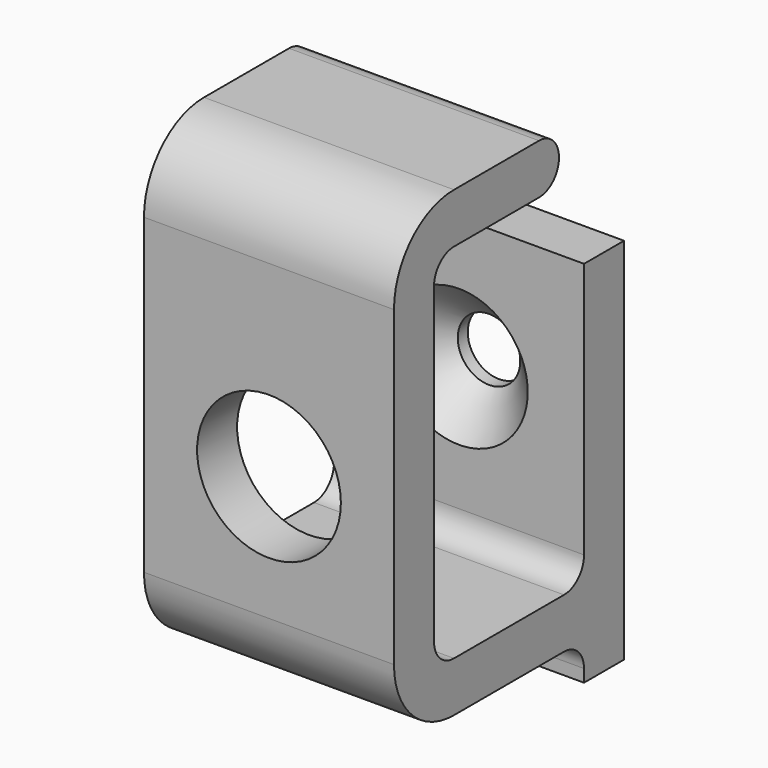
from build123d import *

# Parameters (mm, degrees)
PAD_DEPTH        = 10
HOLE_D           = 5
HOLE_CSINK_D     = 11
HOLE_CSINK_ANGLE = 90
SKETCH002_R      = 5.75
POCKET_DEPTH     = 19.001


with BuildPart() as part:
    # Sketch → Pad (new body, symmetric)
    with BuildSketch(Plane.YZ):
        with BuildLine():
            Line((0, -10), (0, 10.5))
            Line((0, 10.5), (4, 10.5))
            Line((4, 10.5), (4, -19))
            Line((4, -19), (0, -19))
            Line((0, -19), (0, -18))
            ThreePointArc((0, -18), (-0.585786, -16.585786), (-2, -16))
            Line((-2, -16), (-13, -16))
            ThreePointArc((-19, -10), (-17.242641, -14.242641), (-13, -16))
            Line((-19, -10), (-19, 15))
            ThreePointArc((-13, 21), (-17.242641, 19.242641), (-19, 15))
            Line((-13, 21), (-4.5, 21))
            ThreePointArc((-4.5, 17), (-2.5, 19), (-4.5, 21))
            Line((-13, 17), (-4.5, 17))
            ThreePointArc((-13, 17), (-14.414214, 16.414214), (-15, 15))
            Line((-15, -10), (-15, 15))
            ThreePointArc((-15, -10), (-14.414214, -11.414214), (-13, -12))
            Line((-2, -12), (-13, -12))
            ThreePointArc((-2, -12), (-0.585786, -11.414214), (0, -10))
        make_face()
    extrude(amount=PAD_DEPTH, both=True)

    # Hole (through all)
    with Locations(Plane.XZ):
        with Locations((0, 0)):
            CounterSinkHole(HOLE_D / 2, HOLE_CSINK_D / 2, counter_sink_angle=HOLE_CSINK_ANGLE)

    # Sketch002 → Pocket (cut, through all)
    with BuildSketch(Plane.XZ):
        Circle(SKETCH002_R)
    extrude(amount=POCKET_DEPTH, mode=Mode.SUBTRACT)


solid = part.part
